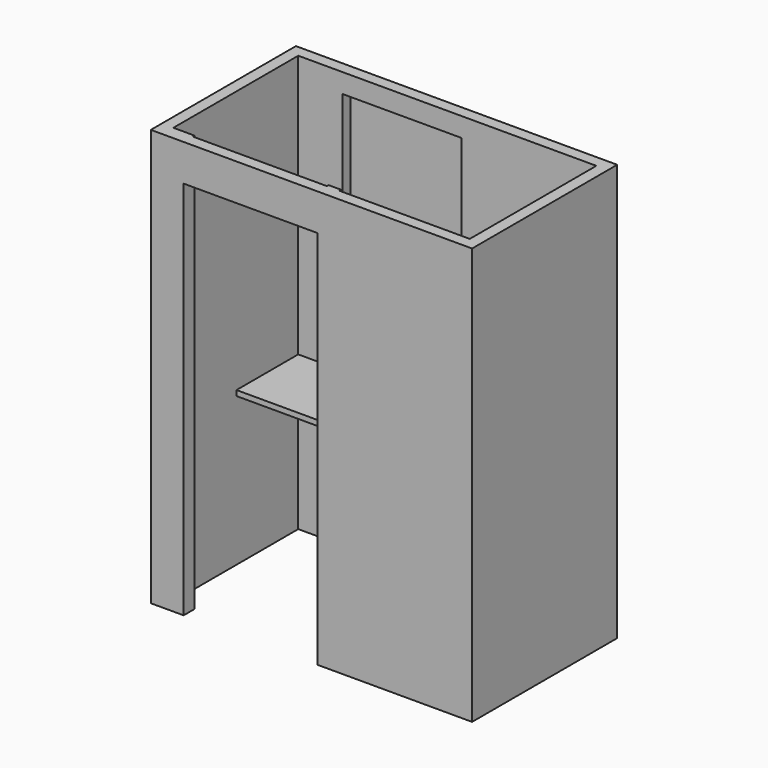
from build123d import *

# Parameters (mm, degrees)
F0_W     = 65
F0_H     = 11
F1_DEPTH = 2160
F2_W     = 615
F2_H     = 920
F3_DEPTH = 50
F2_W_2   = 470
F2_H_2   = 59.696319
F4_DEPTH = 850
F5_W     = 695
F5_H     = 190
F6_DEPTH = 60
F7_DEPTH = 400


with BuildPart() as f1:
    # F0 (on Top) → F1 (new body)
    with BuildSketch(Plane.XY):
        Polygon((-570.886376, 90.884483), (-570.886376, 899.884483), (974.113624, 899.884483), (974.113624, 79.884483), (299.113624, 79.884483), (234.113624, 79.884483), (234.113624, 19.884483), (1034.113624, 19.884483), (1034.113624, 959.884483), (-630.886376, 959.884483), (-630.886376, 19.884483), (-570.886376, 19.884483), (-570.886376, 79.884483), align=None)
        Polygon((-460.886376, 90.884483), (-570.886376, 90.884483), (-570.886376, 79.884483), (-570.886376, 19.884483), (-460.886376, 19.884483), align=None)
        with Locations((266.613624, 85.384483)):
            Rectangle(F0_W, F0_H)
    extrude(amount=F1_DEPTH)

    # F2 (on face) → F3 (cut)
    with BuildSketch(Plane.XZ.offset(-899.884483)):
        with Locations((-33.386376, 1600)):
            Rectangle(F2_W, F2_H)
    extrude(amount=-F3_DEPTH, mode=Mode.SUBTRACT)

    # F2 (on face) → F4 (join)
    with BuildSketch(Plane.XZ.offset(-899.884483)):
        with Locations((739.113624, 739.84816)):
            Rectangle(F2_W_2, F2_H_2)
        with Locations((739.113624, 739.84816)):
            Rectangle(F2_W_2, F2_H_2)
    extrude(amount=F4_DEPTH)

    # F5 (on face) → F6 (join)
    with BuildSketch(Plane.XZ.offset(-19.884483)):
        with Locations((-113.386376, 2065)):
            Rectangle(F5_W, F5_H)
    extrude(amount=-F6_DEPTH)

    # F2 (on face) → F7 (join)
    with BuildSketch(Plane.XZ.offset(-899.884483)):
        Polygon((974.113624, 797.217071), (-570.886376, 797.217071), (-570.886376, 769.696319), (504.113624, 769.696319), (974.113624, 769.696319), align=None)
    extrude(amount=F7_DEPTH)


solid = f1.part
